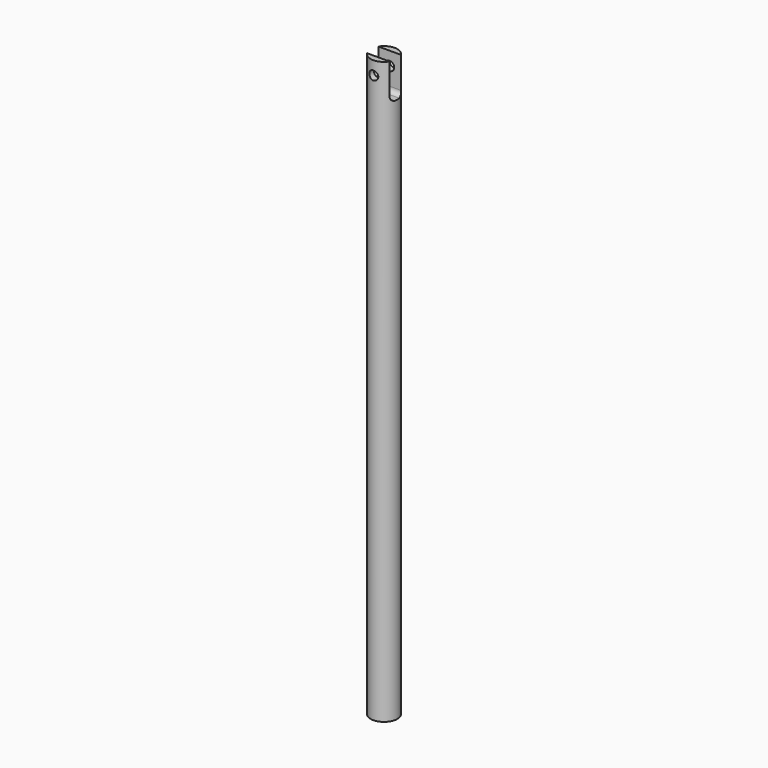
from build123d import *

# Parameters (mm, degrees)
F0_R     = 1.5
F1_DEPTH = 65
F3_DEPTH = 4
F4_R     = 0.5
F5_DEPTH = 1.5
F6_R     = 0.5


with BuildPart() as f1:
    # F0 (on Top) → F1 (new body)
    with BuildSketch(Plane.XY):
        Circle(F0_R)
    extrude(amount=F1_DEPTH)

    # F2 (on face) → F3 (cut)
    with BuildSketch(Plane.XY.offset(65)):
        with BuildLine():
            Line((1.268857754, 0.8), (-1.268857754, 0.8))
            ThreePointArc((-1.268857754, 0.8), (-1.5, 0), (-1.268857754, -0.8))
            Line((-1.268857754, -0.8), (1.268857754, -0.8))
            ThreePointArc((1.268857754, -0.8), (1.4410563193, -0.4163612428), (1.5, 0))
            ThreePointArc((1.5, 0), (1.4410563193, 0.4163612428), (1.268857754, 0.8))
        make_face()
    extrude(amount=-F3_DEPTH, mode=Mode.SUBTRACT)

    # F4 (on Front) → F5 (cut, symmetric)
    with BuildSketch(Plane.XZ):
        with Locations((0, 63.5)):
            Circle(F4_R)
    extrude(amount=F5_DEPTH, both=True, mode=Mode.SUBTRACT)

    # F6
    f6_edges = [f1.edges().sort_by_distance(p)[0] for p in [
        (0, -0.8, 61),
        (0, 0.8, 61),
    ]]
    fillet(f6_edges, radius=F6_R)


solid = f1.part
